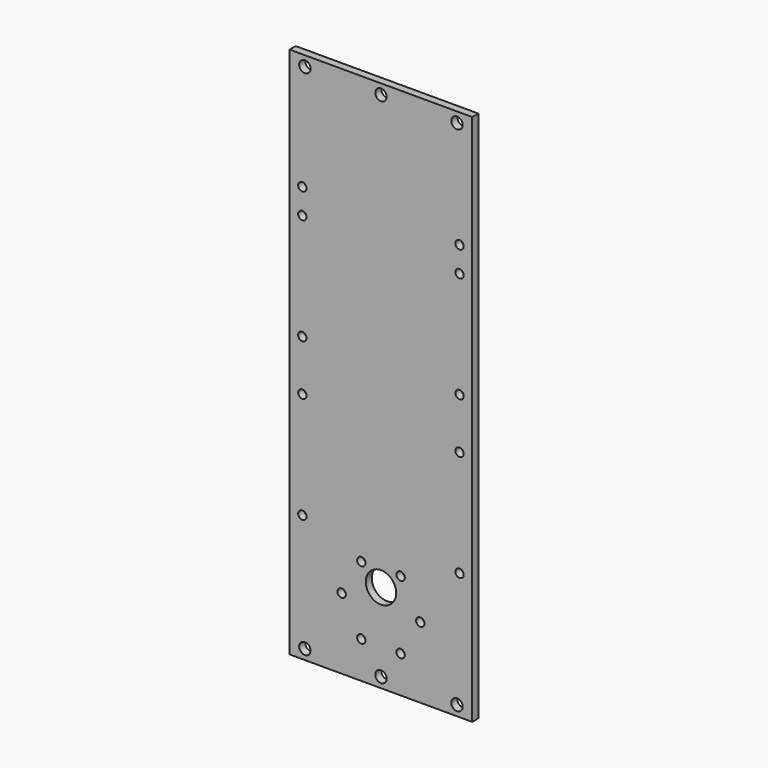
from build123d import *

# Parameters (mm, degrees)
SKETCH_AS_DRAWN_R                   = 2.25
EXTRUDE_DEPTH                       = 10
EXTRUDE_ONTO_SKETCH_ROLL_ANGLE      = 90
EXTRUDE_ONTO_SKETCH_PLACEMENT_ANGLE = 180
BOX_W                               = 72
BOX_H                               = 3
BOX_DEPTH                           = 210
SKETCH001_R                         = 1.65
HOLE_DEPTH                          = 25
SKETCH002_R                         = 1.65
HOLE001_DEPTH                       = 3.001
SKETCH004_R                         = 6
HOLE002_DEPTH                       = 25


with BuildPart() as extrude_body:
    # Sketch as drawn → Extrude (new)
    with BuildSketch(Plane.XY):
        with Locations((-6, 4)):
            Circle(SKETCH_AS_DRAWN_R)
        with Locations((-66, 4)):
            Circle(SKETCH_AS_DRAWN_R)
        with Locations((-36, 4)):
            Circle(SKETCH_AS_DRAWN_R)
    extrude(amount=-EXTRUDE_DEPTH)


with BuildPart() as extrude_body_1:
    # Extrude onto Sketch roll: moved
    add(extrude_body.part.rotate(Axis((0, 0, 0), (1, 0, 0)), EXTRUDE_ONTO_SKETCH_ROLL_ANGLE))


with BuildPart() as extrude_body_2:
    # Extrude onto Sketch placement: moved
    add(extrude_body_1.part.moved(Location((0, 3, 0))).rotate(Axis((0, 3, 0), (0, 0, 1)), EXTRUDE_ONTO_SKETCH_PLACEMENT_ANGLE))


with BuildPart() as part_mirroring:
    # Part__Mirroring: instance of Extrude body
    add(extrude_body_2.part.mirror(Plane(origin=(0, 0, 105), x_dir=(0, 1, 0), z_dir=(0, 0, 1))))


with BuildPart() as fusion:
    # Fusion base: copy of Extrude body
    add(extrude_body_2.part)

    # Fusion: union Part__Mirroring
    add(part_mirroring.part)


with BuildPart() as body:
    # Box → Box (new body)
    with BuildSketch(Plane.XY):
        with Locations((36, 1.5)):
            Rectangle(BOX_W, BOX_H)
    extrude(amount=BOX_DEPTH)

    # Cut: cut Fusion
    add(fusion.part, mode=Mode.SUBTRACT)

    # Sketch001 (on Face2 of BaseFeature) → Hole (cut)
    with BuildSketch(Plane.XZ):
        with Locations((67, 50)):
            Circle(SKETCH001_R)
        with Locations((5, 50)):
            Circle(SKETCH001_R)
        with Locations((67, 92)):
            Circle(SKETCH001_R)
        with Locations((5, 92)):
            Circle(SKETCH001_R)
        with Locations((67, 154)):
            Circle(SKETCH001_R)
        with Locations((5, 154)):
            Circle(SKETCH001_R)
        with Locations((5, 112)):
            Circle(SKETCH001_R)
        with Locations((67, 112)):
            Circle(SKETCH001_R)
        with Locations((5, 164)):
            Circle(SKETCH001_R)
        with Locations((67, 164)):
            Circle(SKETCH001_R)
    extrude(amount=-HOLE_DEPTH, mode=Mode.SUBTRACT)

    # Sketch002 (on Face4 of Hole) → Hole001 (cut, through all)
    with BuildSketch(Plane(origin=(0, 3, 0), x_dir=(-1, 0, 0), z_dir=(0, 1, 0))):
        with Locations((-36, 35)):
            Circle(SKETCH002_R)
        with Locations((-20.5, 28)):
            Circle(SKETCH002_R)
        with Locations((-28.25, 41.423394)):
            Circle(SKETCH002_R)
        with Locations((-43.75, 41.423394)):
            Circle(SKETCH002_R)
        with Locations((-43.75, 14.576606)):
            Circle(SKETCH002_R)
        with Locations((-28.25, 14.576606)):
            Circle(SKETCH002_R)
        with Locations((-51.5, 28)):
            Circle(SKETCH002_R)
    extrude(amount=-HOLE001_DEPTH, mode=Mode.SUBTRACT)

    # Sketch004 (on Face2 of Hole001) → Hole002 (cut)
    with BuildSketch(Plane.XZ):
        with Locations((36, 35)):
            Circle(SKETCH004_R)
    extrude(amount=-HOLE002_DEPTH, mode=Mode.SUBTRACT)


solid = body.part
